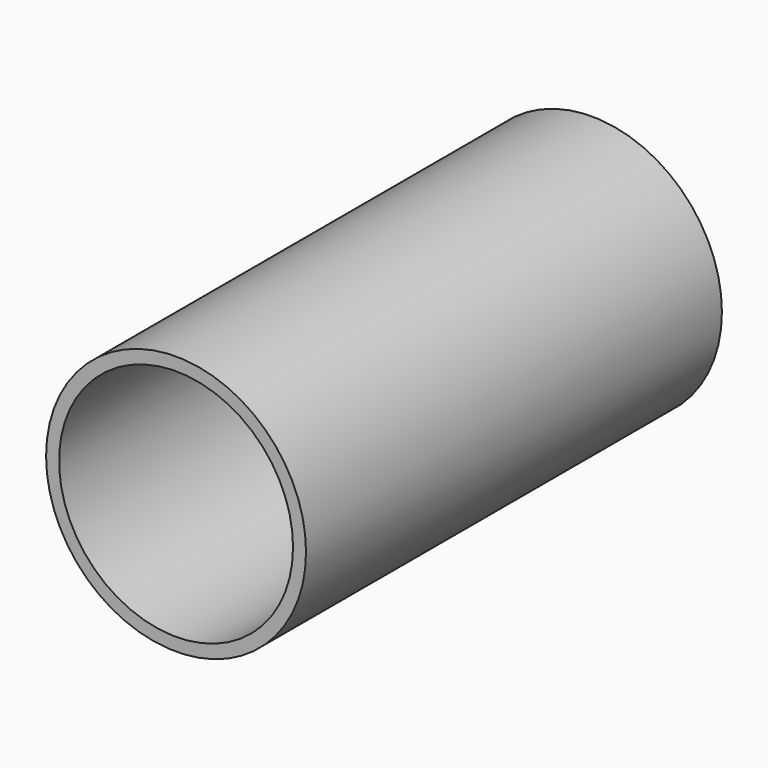
from build123d import *

# Parameters (mm, degrees)
F0_R     = 25.4
F1_DEPTH = 101.6
F2_T     = -2.54


with BuildPart() as f1:
    # F0 (on Front) → F1 (new body)
    with BuildSketch(Plane.XZ):
        Circle(F0_R)
    extrude(amount=-F1_DEPTH)

    # F2
    f2_openings = [f1.faces().sort_by_distance(p)[0] for p in [
        (0, 0, 0),
    ]]
    offset(amount=F2_T, openings=f2_openings)


solid = f1.part
